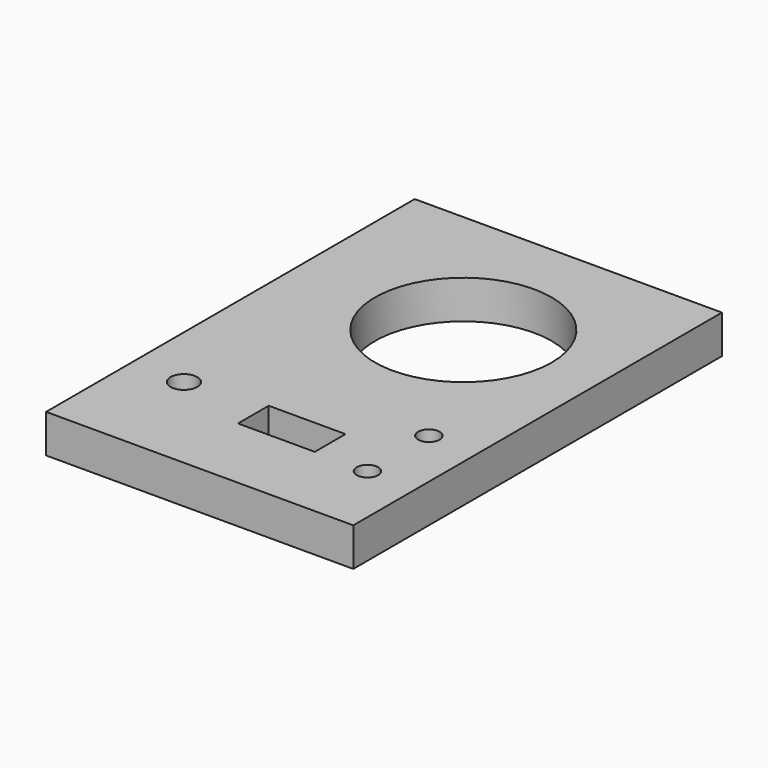
from build123d import *

# Parameters (mm, degrees)
F0_W        = 101.6
F0_H        = 152.4
F4_DEPTH    = 12.7
F1_R        = 29.21
F2_R        = 4.426371
F2_W        = 25.4
F2_H        = 12.7
F3_R        = 3.556
F5_DEPTH    = 25.4
F5_FACE_W   = 25.4
F5_FACE_H   = 12.7
F5_FACE_R   = 29.21
F5_FACE_R_2 = 3.556
F5_FACE_R_3 = 4.426371
F6_DEPTH    = 25.4


with BuildPart() as f4:
    # F0 (on Top) → F4 (new body)
    with BuildSketch(Plane.XY):
        with Locations((-86.551244, 14.376812)):
            Rectangle(F0_W, F0_H)
    extrude(amount=F4_DEPTH)

    # F1 (on Top) + F2 (on Top) + F3 (on Top) → F5 (join)
    with BuildSketch(Plane.XY):
        with Locations((-81.815682, 41.263096)):
            Circle(F1_R)
    with BuildSketch(Plane.XY):
        with Locations((-119.990457, -26.553331)):
            Circle(F2_R)
        with Locations((-81.890457, -29.590288)):
            Rectangle(F2_W, F2_H)
    with BuildSketch(Plane.XY):
        with Locations((-51.804963, -10.494831)):
            Circle(F3_R)
        with Locations((-51.804963, -35.894831)):
            Circle(F3_R)
    extrude(amount=F5_DEPTH)

    # F5_face (on face) → F6 (cut)
    with BuildSketch(Plane(origin=(-81.890457, -29.590288, 25.4), x_dir=(1, 0, 0), z_dir=(0, 0, 1))):
        Rectangle(F5_FACE_W, F5_FACE_H)
        with Locations((0.074775, 70.853384)):
            Circle(F5_FACE_R)
        with Locations((30.085494, 19.095457)):
            Circle(F5_FACE_R_2)
        with Locations((30.085494, -6.304543)):
            Circle(F5_FACE_R_2)
        with Locations((-38.1, 3.036957)):
            Circle(F5_FACE_R_3)
    extrude(amount=-F6_DEPTH, mode=Mode.SUBTRACT)


solid = f4.part
